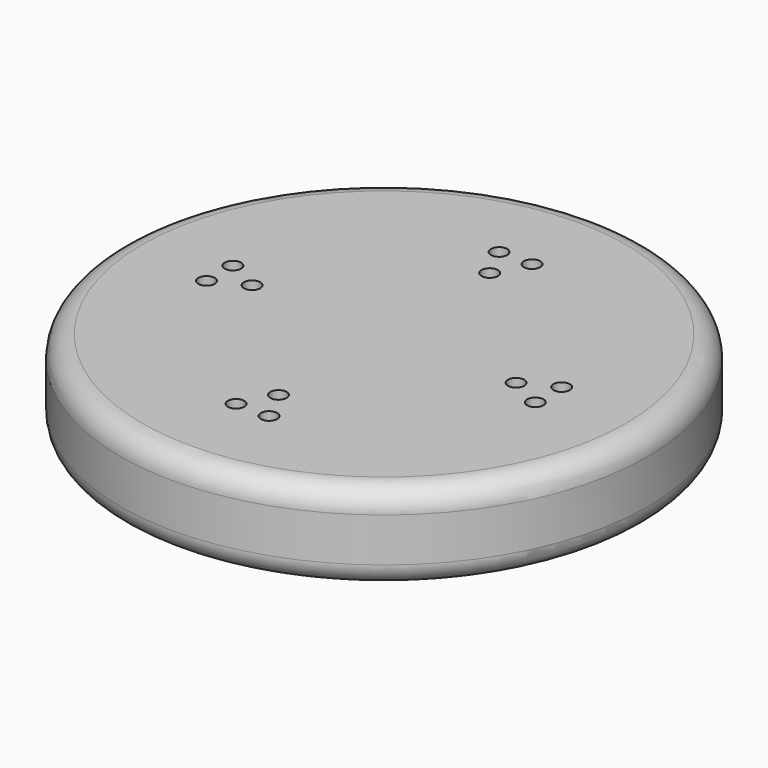
from build123d import *

# Parameters (mm, degrees)
F0_R     = 152.4
F1_DEPTH = 50.8
F2_R     = 12.7
F3_R     = 4.733827
F4_DEPTH = 25.4


with BuildPart() as f1:
    # F0 (on Top) → F1 (new body)
    with BuildSketch(Plane.XY):
        Circle(F0_R)
    extrude(amount=F1_DEPTH)

    # F2
    f2_edges = [f1.edges().sort_by_distance(p)[0] for p in [
        (-152.4, 0, 50.8),
        (-152.4, 0, 0),
    ]]
    fillet(f2_edges, radius=F2_R)

    # F3 (on face) → F4 (cut)
    with BuildSketch(Plane.XY.offset(50.8)):
        with Locations((-94.924906, -9.525)):
            Circle(F3_R)
        with Locations((-94.924906, 9.525)):
            Circle(F3_R)
        with Locations((-76.2, 0)):
            Circle(F3_R)
        with Locations((-9.53826, -94.923999)):
            Circle(F3_R)
        with Locations((0, -76.2)):
            Circle(F3_R)
        with Locations((9.53826, -94.923999)):
            Circle(F3_R)
        with Locations((76.2, 0)):
            Circle(F3_R)
        with Locations((94.924906, 9.525)):
            Circle(F3_R)
        with Locations((94.924906, -9.525)):
            Circle(F3_R)
        with Locations((0, 76.2)):
            Circle(F3_R)
        with Locations((9.525, 94.924906)):
            Circle(F3_R)
        with Locations((-9.525, 94.924906)):
            Circle(F3_R)
    extrude(amount=-F4_DEPTH, mode=Mode.SUBTRACT)


solid = f1.part
